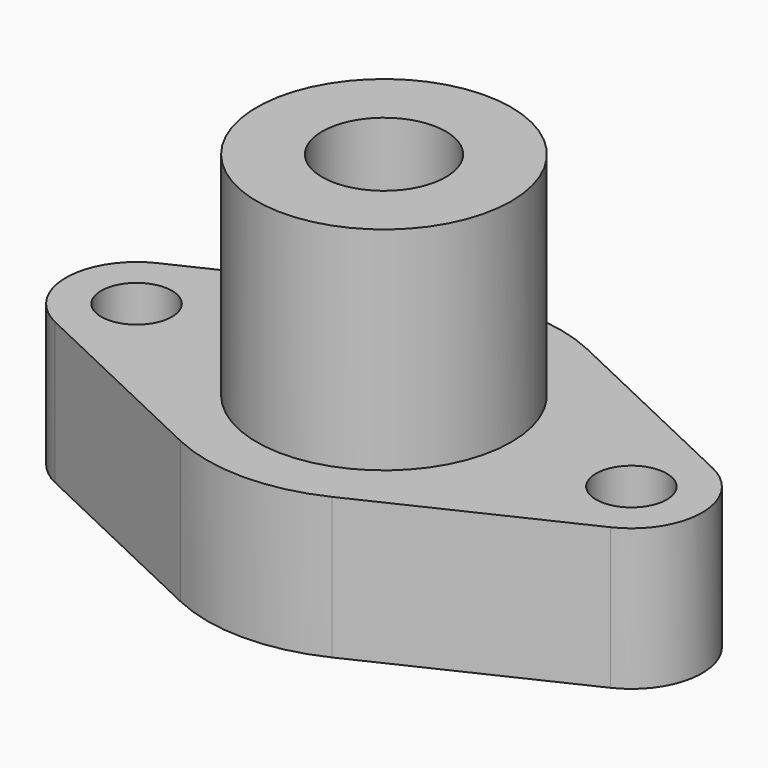
from build123d import *

# Parameters (mm, degrees)
F1_DEPTH = 20
F3_D     = 10
F3_DEPTH = 20
F3_TIP   = 3.0043030951
F4_R     = 18
F5_DEPTH = 30
F7_D     = 17.5
F7_DEPTH = 25
F7_TIP   = 5.2575304165


with BuildPart() as f1:
    # F0 (on Top) → F1 (new body)
    with BuildSketch(Plane.XY):
        with BuildLine():
            Line((10.714285677, -22.587697541), (39.2857142338, -9.0350790325))
            ThreePointArc((39.2857142338, -9.0350790325), (44.9999999554, 0), (39.2857142338, 9.0350790325))
            Line((39.2857142338, 9.0350790325), (10.714285677, 22.587697541))
            ThreePointArc((10.714285677, 22.587697541), (2.52e-08, 24.9999999554), (-10.7142856314, 22.5876975626))
            Line((-10.7142856314, 22.5876975626), (-39.2857142793, 9.0350790815))
            ThreePointArc((-39.2857142793, 9.0350790815), (-45.0000000446, 0), (-39.2857142793, -9.0350790815))
            Line((-39.2857142793, -9.0350790815), (-10.7142856314, -22.5876975626))
            ThreePointArc((-10.7142856314, -22.5876975626), (2.52e-08, -24.9999999554), (10.714285677, -22.587697541))
        make_face()
    extrude(amount=F1_DEPTH)

    # F3
    with Locations(Plane.XY.offset(20)):
        with Locations((-35, 0), (35, 0)):
            Hole(F3_D / 2, depth=F3_DEPTH)
            with Locations((0, 0, -(F3_DEPTH + F3_TIP / 2))):  # 118° drill point
                Cone(0, F3_D / 2, F3_TIP, mode=Mode.SUBTRACT)

    # F4 (on face) → F5 (join)
    with BuildSketch(Plane.XY.offset(20)):
        Circle(F4_R)
    extrude(amount=F5_DEPTH)

    # F7
    with Locations(Plane.XY.offset(50)):
        with Locations((0, 0)):
            Hole(F7_D / 2, depth=F7_DEPTH)
            with Locations((0, 0, -(F7_DEPTH + F7_TIP / 2))):  # 118° drill point
                Cone(0, F7_D / 2, F7_TIP, mode=Mode.SUBTRACT)


solid = f1.part
